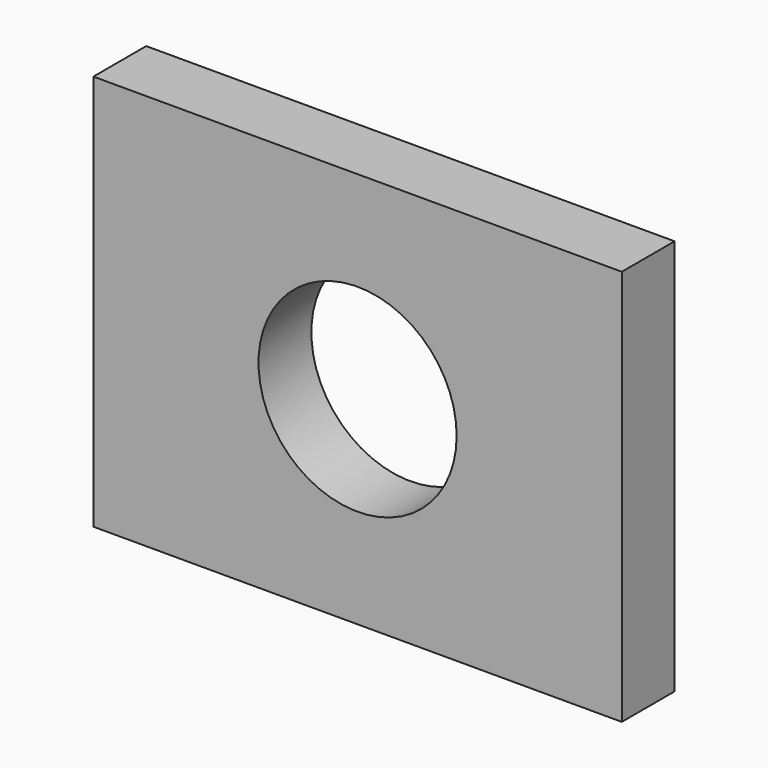
from build123d import *

# Parameters (mm, degrees)
F0_W     = 40
F0_H     = 30
F1_DEPTH = 10
F2_R     = 15
F3_DEPTH = 10.001


with BuildPart() as f1:
    # F0 (on Front) → F1 (new body)
    with BuildSketch(Plane.XZ):
        with Locations((-20, 15)):
            Rectangle(F0_W, F0_H)
        with Locations((-60, 15)):
            Rectangle(F0_W, F0_H)
        with Locations((-20, 45)):
            Rectangle(F0_W, F0_H)
        with Locations((-60, 45)):
            Rectangle(F0_W, F0_H)
    extrude(amount=F1_DEPTH)

    # F2 (on face) → F3 (cut, through all)
    with BuildSketch(Plane.XZ.offset(10)):
        with Locations((-40, 30)):
            Circle(F2_R)
    extrude(amount=-F3_DEPTH, mode=Mode.SUBTRACT)


solid = f1.part
